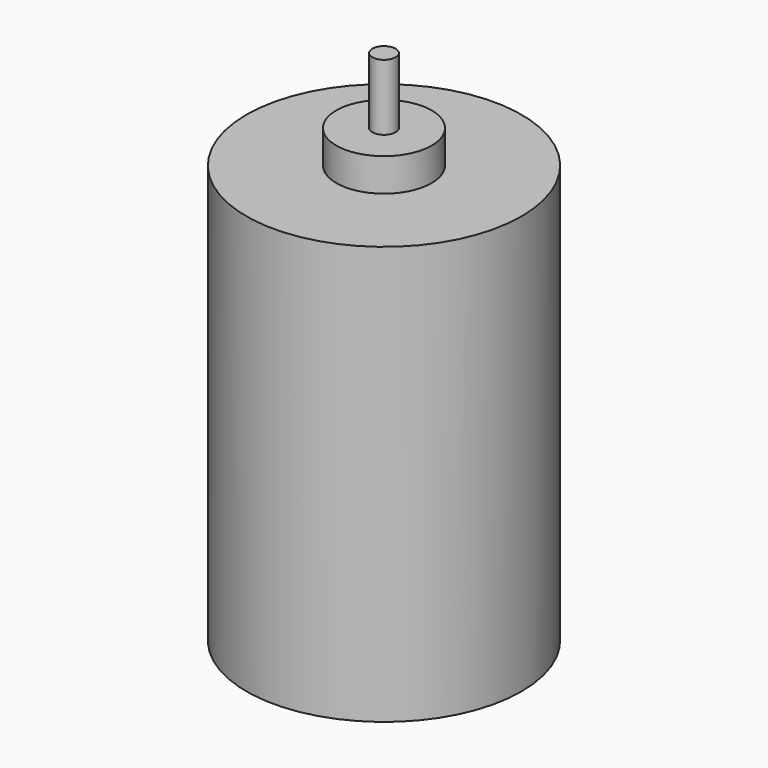
from build123d import *

# Parameters (mm, degrees)
F0_R     = 6.5
F1_DEPTH = 33
F0_R_2   = 18.75
F2_DEPTH = 28.5
F3_R     = 6.5
F4_DEPTH = 34
F5_R     = 1.5875
F6_DEPTH = 42


with BuildPart() as f1:
    # F0 (on Top) → F1 (new body)
    with BuildSketch(Plane.XY):
        Circle(F0_R)
    extrude(amount=F1_DEPTH)

    # F0 (on Top) → F2 (join, symmetric)
    with BuildSketch(Plane.XY):
        Circle(F0_R_2)
        Circle(F0_R, mode=Mode.SUBTRACT)
    extrude(amount=F2_DEPTH, both=True)

    # F3 (on Top) → F4 (join)
    with BuildSketch(Plane.XY):
        Circle(F3_R)
    extrude(amount=-F4_DEPTH)

    # F5 (on Top) → F6 (join)
    with BuildSketch(Plane.XY):
        Circle(F5_R)
    extrude(amount=F6_DEPTH)


solid = f1.part
